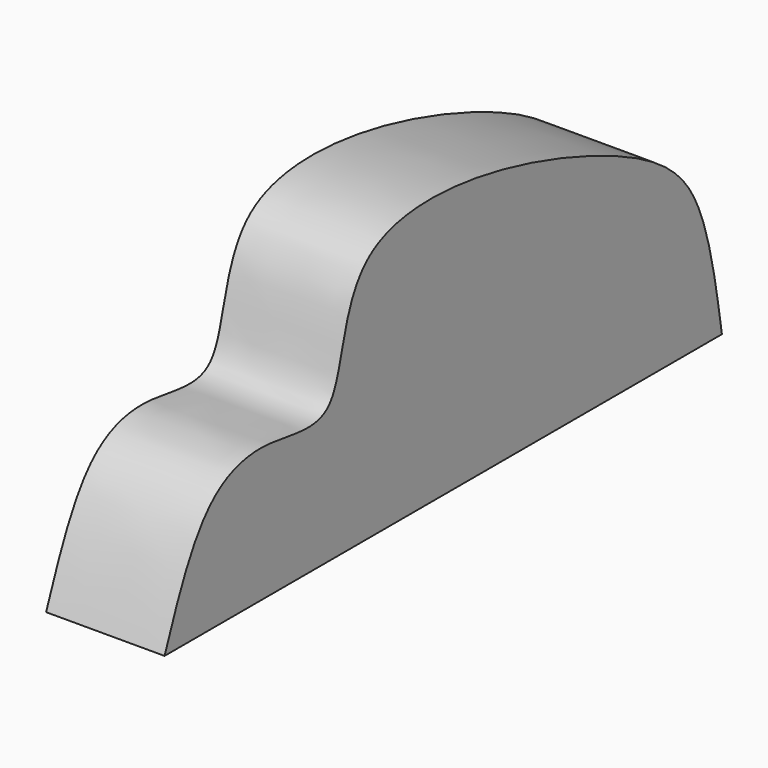
from build123d import *

# Parameters (mm, degrees)
F1_DEPTH = 25.4


with BuildPart() as f1:
    # F0 (on Right) → F1 (new body)
    with BuildSketch(Plane.YZ):
        with BuildLine():
            add(Edge.make_bspline(
                [(-74.5235979557, 0), (-70.9443364772, 9.3416231853), (-64.6024124028, 25.893603343), (-47.5433025916, 30.5059429233), (-25.3457707482, 22.9053999621), (-29.3964077277, 69.6400537014), (54.623777186, 46.2209742453), (70.4939218705, 27.2184570482), (73.3827751659, 9.0778400981), (74.8284012079, 0)],
                knots=[0, 0, 0, 0, 0.1403044873, 0.248598883, 0.3574489292, 0.4970479561, 0.7243930117, 0.8620820793, 1, 1, 1, 1], degree=3))
            Line((-74.5235979557, 0), (74.8284012079, 0))
        make_face()
    extrude(amount=F1_DEPTH)


solid = f1.part
